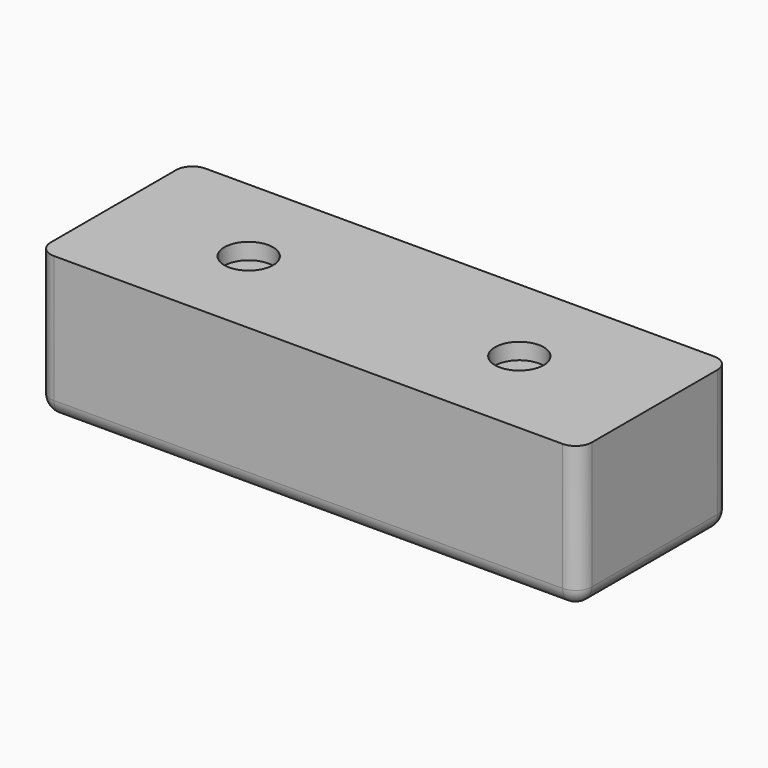
from build123d import *

# Parameters (mm, degrees)
F0_W     = 50.8
F0_H     = 17.78
F1_DEPTH = 13.462
F2_R     = 1.524
F3_R     = 2.286
F4_DEPTH = 1.524


with BuildPart() as f1:
    # F0 (on Top) → F1 (new body)
    with BuildSketch(Plane.XY):
        Rectangle(F0_W, F0_H)
    extrude(amount=F1_DEPTH)

    # F2
    f2_edges = [f1.edges().sort_by_distance(p)[0] for p in [
        (0, 8.89, 0),
        (-25.4, 0, 0),
        (0, -8.89, 0),
        (25.4, 0, 0),
        (-25.4, -8.89, 6.731),
        (25.4, -8.89, 6.731),
        (25.4, 8.89, 6.731),
        (-25.4, 8.89, 6.731),
    ]]
    fillet(f2_edges, radius=F2_R)

    # F3 (on face) → F4 (cut)
    with BuildSketch(Plane.XY.offset(13.462)):
        with Locations((12.7, 0)):
            Circle(F3_R)
        with Locations((-12.7, 0)):
            Circle(F3_R)
    extrude(amount=-F4_DEPTH, mode=Mode.SUBTRACT)


solid = f1.part
